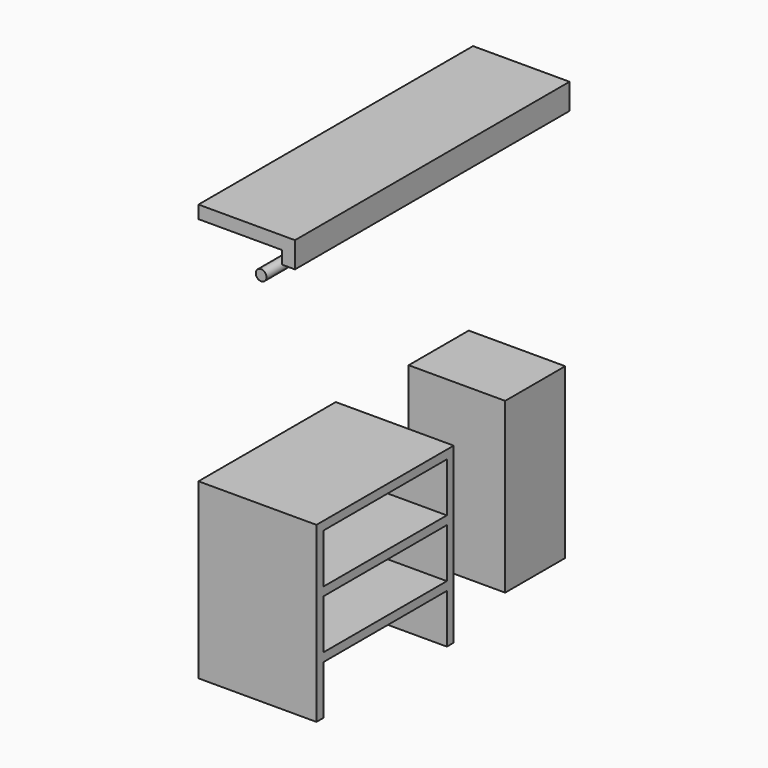
from build123d import *

# Parameters (mm, degrees)
F6_R      = 25
F7_DEPTH  = 1600.2
F8_W      = 720.1
F8_H      = 230
F9_DEPTH  = 550
F10_DEPTH = 25
F11_W     = 350
F11_H     = 787.4
F12_DEPTH = 450


with BuildPart() as f7:
    # F6 (on Front) → F7 (new body, through all)
    with BuildSketch(Plane.XZ):
        with Locations((292.1, 1750)):
            Circle(F6_R)
        Polygon((450, 1945), (0, 1945), (0, 1885), (390, 1885), (390, 1825), (450, 1825), align=None)
    extrude(amount=-F7_DEPTH)


with BuildPart() as f9:
    # F8 (on Right) → F9 (new body)
    with BuildSketch(Plane.YZ):
        Polygon((800.1, 809), (0, 809), (0, 0), (40, 0), (40, 229), (760.1, 229), (760.1, 0), (800.1, 0), align=None)
        with Locations((400.05, 384)):
            Rectangle(F8_W, F8_H, mode=Mode.SUBTRACT)
        with Locations((400.05, 654)):
            Rectangle(F8_W, F8_H, mode=Mode.SUBTRACT)
    extrude(amount=F9_DEPTH)

    # F8 (on Right) → F10 (join)
    with BuildSketch(Plane.YZ):
        Polygon((800.1, 809), (0, 809), (0, 0), (40, 0), (40, 229), (760.1, 229), (760.1, 0), (800.1, 0), align=None)
        with Locations((400.05, 384)):
            Rectangle(F8_W, F8_H, mode=Mode.SUBTRACT)
        with Locations((400.05, 654)):
            Rectangle(F8_W, F8_H, mode=Mode.SUBTRACT)
    extrude(amount=F10_DEPTH)


with BuildPart() as f12:
    # F11 (on Right) → F12 (new body)
    with BuildSketch(Plane.YZ):
        with Locations((1400.2, 393.7)):
            Rectangle(F11_W, F11_H)
    extrude(amount=F12_DEPTH)


solid = Compound([f7.part, f9.part, f12.part])
